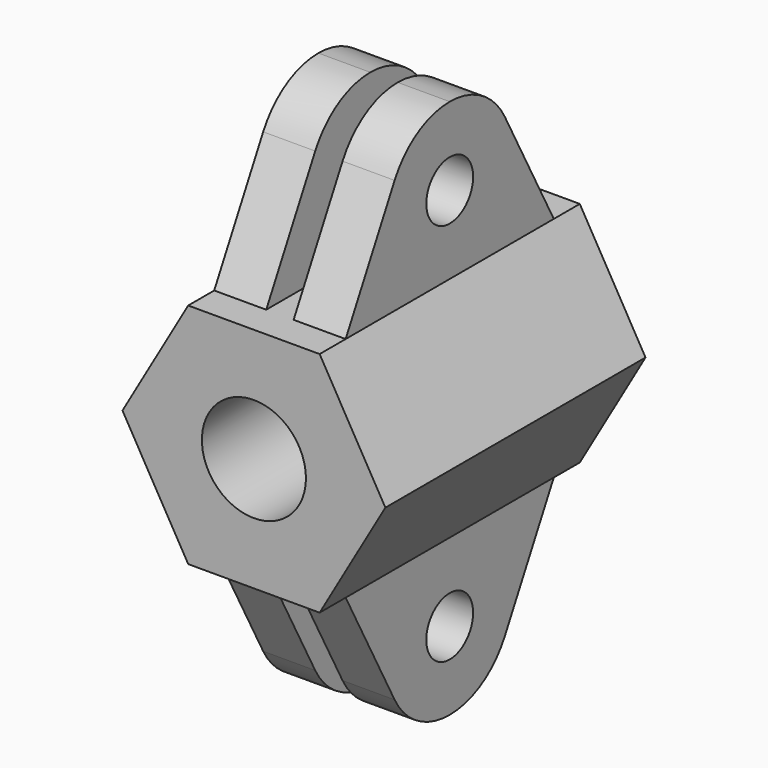
from build123d import *

# Parameters (mm, degrees)
F0_R      = 8
F1_DEPTH  = 25
F2_W      = 20.2072594216
F2_H      = 40
F3_DEPTH  = 24
F4_R      = 4.5
F5_DEPTH  = 30.3118891325
F7_DEPTH  = 25.4
F8_W      = 4.2072594216
F8_H      = 50
F9_DEPTH  = 25.4
F10_W     = 20.2072594216
F10_H     = 40
F11_DEPTH = 24
F12_R     = 4.5
F13_DEPTH = 25.4
F15_DEPTH = 25.4
F16_W     = 4.2072594216
F16_H     = 50
F17_DEPTH = 25.4


with BuildPart() as f1:
    # F0 (on Front) → F1 (new body, symmetric)
    with BuildSketch(Plane.XZ):
        Polygon((10.1036297108, 17.5), (-10.1036297108, 17.5), (-20.2072594216, 0), (-10.1036297108, -17.5), (10.1036297108, -17.5), (20.2072594216, 0), align=None)
        Circle(F0_R, mode=Mode.SUBTRACT)
    extrude(amount=F1_DEPTH, both=True)

    # F2 (on face) → F3 (join)
    with BuildSketch(Plane.XY.offset(17.5)):
        Rectangle(F2_W, F2_H)
    extrude(amount=F3_DEPTH)

    # F4 (on face) → F5 (cut, through all)
    with BuildSketch(Plane(origin=(-10.1036297108, 0, 0), x_dir=(0, -1, 0), z_dir=(-1, 0, 0))):
        with Locations((0, 29.5)):
            Circle(F4_R)
    extrude(amount=-F5_DEPTH, mode=Mode.SUBTRACT)

    # F6 (on face) → F7 (cut)
    with BuildSketch(Plane(origin=(-10.1036297108, 0, 0), x_dir=(0, -1, 0), z_dir=(-1, 0, 0))):
        with BuildLine():
            Line((-20, 41.5), (-20, 17.5))
            Line((-20, 17.5), (-10.5882352941, 35.1470588235))
            ThreePointArc((-10.5882352941, 35.1470588235), (-6.1739490436, 39.7899151215), (5.03e-08, 41.5))
            Line((5.03e-08, 41.5), (-20, 41.5))
        make_face()
        with BuildLine():
            Line((10.5882352941, 35.1470588235), (20, 17.5))
            Line((20, 17.5), (20, 41.5))
            Line((20, 41.5), (5.03e-08, 41.5))
            ThreePointArc((5.03e-08, 41.5), (6.1739490867, 39.7899150956), (10.5882352941, 35.1470588235))
        make_face()
    extrude(amount=-F7_DEPTH, mode=Mode.SUBTRACT)

    # F8 (on face) → F9 (cut)
    with BuildSketch(Plane.XY.offset(17.5)):
        Rectangle(F8_W, F8_H)
    extrude(amount=F9_DEPTH, mode=Mode.SUBTRACT)

    # F10 (on face) → F11 (join)
    with BuildSketch(Plane(origin=(0, 0, -17.5), x_dir=(1, 0, 0), z_dir=(0, 0, -1))):
        Rectangle(F10_W, F10_H)
    extrude(amount=F11_DEPTH)

    # F12 (on face) → F13 (cut)
    with BuildSketch(Plane.YZ.offset(10.1036297108)):
        with Locations((0, -29.5)):
            Circle(F12_R)
    extrude(amount=-F13_DEPTH, mode=Mode.SUBTRACT)

    # F14 (on face) → F15 (cut)
    with BuildSketch(Plane.YZ.offset(10.1036297108)):
        with BuildLine():
            Line((20, -41.5), (20, -17.5))
            Line((20, -17.5), (10.5882352941, -35.1470588235))
            ThreePointArc((10.5882352941, -35.1470588235), (6.1739490436, -39.7899151215), (-5.03e-08, -41.5))
            Line((-5.03e-08, -41.5), (20, -41.5))
        make_face()
        with BuildLine():
            Line((-10.5882352941, -35.1470588235), (-20, -17.5))
            Line((-20, -17.5), (-20, -41.5))
            Line((-20, -41.5), (-5.03e-08, -41.5))
            ThreePointArc((-5.03e-08, -41.5), (-6.1739490867, -39.7899150956), (-10.5882352941, -35.1470588235))
        make_face()
    extrude(amount=-F15_DEPTH, mode=Mode.SUBTRACT)

    # F16 (on face) → F17 (cut)
    with BuildSketch(Plane(origin=(0, 0, -17.5), x_dir=(1, 0, 0), z_dir=(0, 0, -1))):
        Rectangle(F16_W, F16_H)
    extrude(amount=F17_DEPTH, mode=Mode.SUBTRACT)


solid = f1.part
